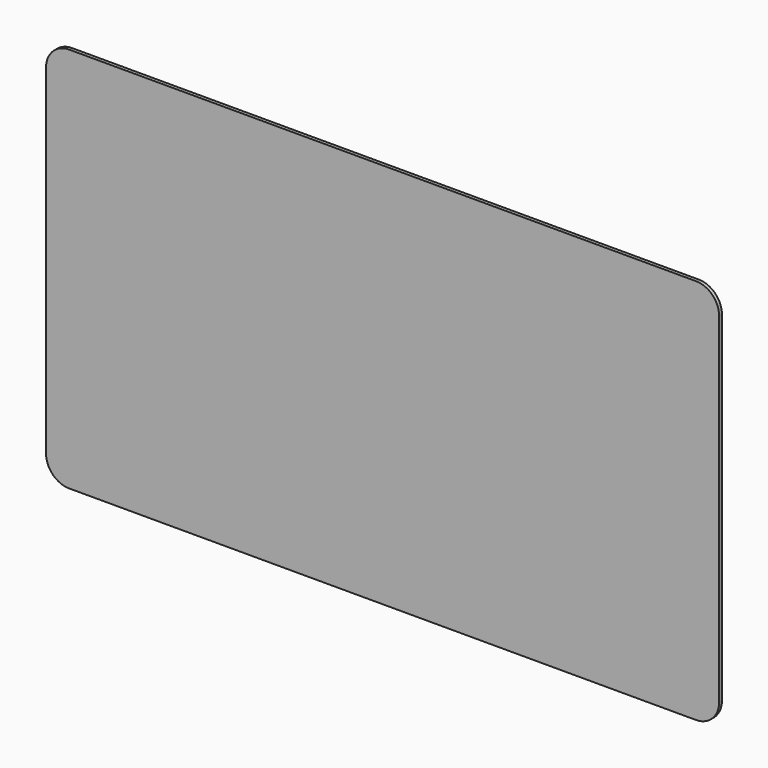
from build123d import *

# Parameters (mm, degrees)
F0_W     = 166.2
F0_H     = 100.06
F0_W_2   = 6
F0_H_2   = 8
F0_R     = 1.5
F0_W_3   = 8
F0_H_3   = 6
F0_R_2   = 1.25
F0_H_4   = 4
F0_W_4   = 4
F1_DEPTH = 1


with BuildPart() as f1:
    # F0 (on Front) → F1 (new body)
    with BuildSketch(Plane.XZ):
        with BuildLine():
            Line((89.85, 55.38), (-89.85, 55.38))
            ThreePointArc((-89.85, 55.38), (-94.5381179593, 53.4381179593), (-96.48, 48.75))
            Line((-96.48, 48.75), (-96.48, -48.75))
            ThreePointArc((-96.48, -48.75), (-94.5381179593, -53.4381179593), (-89.85, -55.38))
            Line((-89.85, -55.38), (89.85, -55.38))
            ThreePointArc((89.85, -55.38), (94.5381179593, -53.4381179593), (96.48, -48.75))
            Line((96.48, -48.75), (96.48, 48.75))
            ThreePointArc((96.48, 48.75), (94.5381179593, 53.4381179593), (89.85, 55.38))
        make_face()
        with Locations((-1.4, -1.28)):
            Rectangle(F0_W, F0_H, mode=Mode.SUBTRACT)
        with Locations((-1.4, -1.28)):
            Rectangle(F0_W, F0_H)
        Polygon((-57.5, -27.85), (-57.5, -35.85), (-61.5, -35.85), (-67.5, -35.85), (-71.5, -35.85), (-71.5, -27.85), (-67.5, -27.85), (-61.5, -27.85), align=None, mode=Mode.SUBTRACT)
        Polygon((-40.05, -18.05), (-40.05, -14.05), (-32.05, -14.05), (-32.05, -18.05), (-32.05, -24.05), (-32.05, -28.05), (-40.05, -28.05), (-40.05, -24.05), align=None, mode=Mode.SUBTRACT)
        Polygon((68.7, -27.85), (68.7, -35.85), (64.7, -35.85), (58.7, -35.85), (54.7, -35.85), (54.7, -27.85), (58.7, -27.85), (64.7, -27.85), align=None, mode=Mode.SUBTRACT)
        Polygon((17.95, -18.05), (17.95, -14.05), (25.95, -14.05), (25.95, -18.05), (25.95, -24.05), (25.95, -28.05), (17.95, -28.05), (17.95, -24.05), align=None, mode=Mode.SUBTRACT)
        Polygon((-57.5, 37.8), (-57.5, 29.8), (-61.5, 29.8), (-67.5, 29.8), (-71.5, 29.8), (-71.5, 37.8), (-67.5, 37.8), (-61.5, 37.8), align=None, mode=Mode.SUBTRACT)
        Polygon((-32.05, 20.95), (-40.05, 20.95), (-40.05, 24.95), (-40.05, 30.95), (-40.05, 34.95), (-32.05, 34.95), (-32.05, 30.95), (-32.05, 24.95), align=None, mode=Mode.SUBTRACT)
        Polygon((25.95, 20.95), (17.95, 20.95), (17.95, 24.95), (17.95, 30.95), (17.95, 34.95), (25.95, 34.95), (25.95, 30.95), (25.95, 24.95), align=None, mode=Mode.SUBTRACT)
        Polygon((68.7, 37.8), (68.7, 29.8), (64.7, 29.8), (58.7, 29.8), (54.7, 29.8), (54.7, 37.8), (58.7, 37.8), (64.7, 37.8), align=None, mode=Mode.SUBTRACT)
        with Locations((-64.5, -31.85)):
            Rectangle(F0_W_2, F0_H_2)
        with Locations((-64.5, -31.85)):
            Circle(F0_R, mode=Mode.SUBTRACT)
        with Locations((21.95, 27.95)):
            Rectangle(F0_W_3, F0_H_3)
        with Locations((21.95, 27.95)):
            Circle(F0_R_2, mode=Mode.SUBTRACT)
        with Locations((61.7, -31.85)):
            Rectangle(F0_W_2, F0_H_2)
        with Locations((61.7, -31.85)):
            Circle(F0_R, mode=Mode.SUBTRACT)
        with Locations((-36.05, -21.05)):
            Rectangle(F0_W_3, F0_H_3)
        with Locations((-36.05, -21.05)):
            Circle(F0_R_2, mode=Mode.SUBTRACT)
        with Locations((-36.05, 27.95)):
            Rectangle(F0_W_3, F0_H_3)
        with Locations((-36.05, 27.95)):
            Circle(F0_R_2, mode=Mode.SUBTRACT)
        with Locations((61.7, 33.8)):
            Rectangle(F0_W_2, F0_H_2)
        with Locations((61.7, 33.8)):
            Circle(F0_R, mode=Mode.SUBTRACT)
        with Locations((21.95, -21.05)):
            Rectangle(F0_W_3, F0_H_3)
        with Locations((21.95, -21.05)):
            Circle(F0_R_2, mode=Mode.SUBTRACT)
        with Locations((-64.5, 33.8)):
            Rectangle(F0_W_2, F0_H_2)
        with Locations((-64.5, 33.8)):
            Circle(F0_R, mode=Mode.SUBTRACT)
        with Locations((21.95, 32.95)):
            Rectangle(F0_W_3, F0_H_4)
        with Locations((-36.05, 22.95)):
            Rectangle(F0_W_3, F0_H_4)
        with Locations((21.95, -16.05)):
            Rectangle(F0_W_3, F0_H_4)
        with Locations((21.95, 22.95)):
            Rectangle(F0_W_3, F0_H_4)
        with Locations((56.7, 33.8)):
            Rectangle(F0_W_4, F0_H_2)
        with Locations((66.7, 33.8)):
            Rectangle(F0_W_4, F0_H_2)
        with Locations((-69.5, 33.8)):
            Rectangle(F0_W_4, F0_H_2)
        with Locations((-59.5, 33.8)):
            Rectangle(F0_W_4, F0_H_2)
        with Locations((56.7, -31.85)):
            Rectangle(F0_W_4, F0_H_2)
        with Locations((-59.5, -31.85)):
            Rectangle(F0_W_4, F0_H_2)
        with Locations((-69.5, -31.85)):
            Rectangle(F0_W_4, F0_H_2)
        with Locations((-36.05, -26.05)):
            Rectangle(F0_W_3, F0_H_4)
        with Locations((21.95, -26.05)):
            Rectangle(F0_W_3, F0_H_4)
        with Locations((66.7, -31.85)):
            Rectangle(F0_W_4, F0_H_2)
        with Locations((-36.05, -16.05)):
            Rectangle(F0_W_3, F0_H_4)
        with Locations((-36.05, 32.95)):
            Rectangle(F0_W_3, F0_H_4)
        with Locations((-64.5, 33.8)):
            Circle(F0_R)
        with Locations((61.7, 33.8)):
            Circle(F0_R)
        with Locations((-64.5, -31.85)):
            Circle(F0_R)
        with Locations((61.7, -31.85)):
            Circle(F0_R)
        with Locations((-36.05, -21.05)):
            Circle(F0_R_2)
        with Locations((21.95, -21.05)):
            Circle(F0_R_2)
        with Locations((21.95, 27.95)):
            Circle(F0_R_2)
        with Locations((-36.05, 27.95)):
            Circle(F0_R_2)
    extrude(amount=-F1_DEPTH)


solid = f1.part
